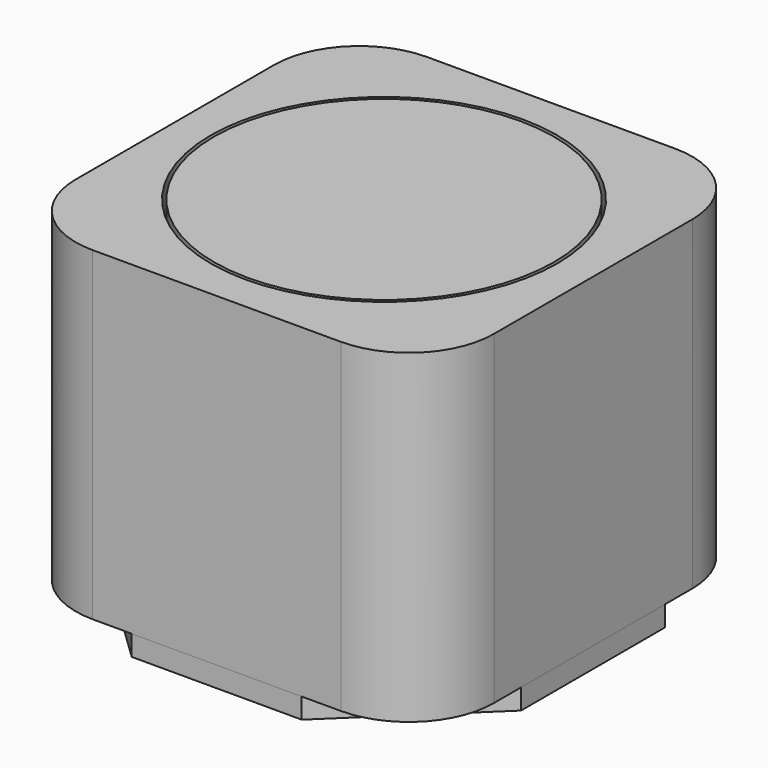
from build123d import *

# Parameters (mm, degrees)
F1_DEPTH = 9.56
F2_R     = 3.995737
F3_DEPTH = 1
F4_R     = 5.1
F4_R_2   = 5
F5_DEPTH = 6
F7_DEPTH = 0.6
F8_W     = 5
F8_H     = 2.5
F9_DEPTH = 0.6


with BuildPart() as f1:
    # F0 (on Top) → F1 (new body)
    with BuildSketch(Plane.XY):
        with BuildLine():
            Line((-3.65, -6.15), (3.65, -6.15))
            ThreePointArc((3.65, -6.15), (5.417767, -5.417767), (6.15, -3.65))
            Line((6.15, -3.65), (6.15, 3.65))
            ThreePointArc((6.15, 3.65), (5.417767, 5.417767), (3.65, 6.15))
            Line((3.65, 6.15), (-3.65, 6.15))
            ThreePointArc((-3.65, 6.15), (-5.417767, 5.417767), (-6.15, 3.65))
            Line((-6.15, 3.65), (-6.15, -3.65))
            ThreePointArc((-6.15, -3.65), (-5.417767, -5.417767), (-3.65, -6.15))
        make_face()
    extrude(amount=F1_DEPTH)

    # F2 (on face) → F3 (join)
    with BuildSketch(Plane.XY.offset(9.56)):
        Circle(F2_R)
    extrude(amount=-F3_DEPTH)

    # F4 (on face) → F5 (cut)
    with BuildSketch(Plane.XY.offset(9.56)):
        Circle(F4_R)
        Circle(F4_R_2, mode=Mode.SUBTRACT)
    extrude(amount=-F5_DEPTH, mode=Mode.SUBTRACT)


with BuildPart() as f7:
    # F6 (on face) → F7 (new body)
    with BuildSketch(Plane(origin=(0, 0, 0), x_dir=(1, 0, 0), z_dir=(0, 0, -1))):
        Polygon((-6.15, 2.65), (-6.15, -2.65), (-2.5, -6.15), (-2.5, -3.65), (2.5, -3.65), (2.5, -6.15), (6.15, -2.65), (6.15, 2.65), (2.5, 6.15), (2.5, 3.65), (-2.5, 3.65), (-2.5, 6.15), align=None)
    extrude(amount=F7_DEPTH)


with BuildPart() as f9:
    # F8 (on face) → F9 (new body)
    with BuildSketch(Plane(origin=(0, 0, 0), x_dir=(1, 0, 0), z_dir=(0, 0, -1))):
        with Locations((0, -4.9)):
            Rectangle(F8_W, F8_H)
        with Locations((0, 4.9)):
            Rectangle(F8_W, F8_H)
    extrude(amount=F9_DEPTH)


solid = Compound([f1.part, f7.part, f9.part])
